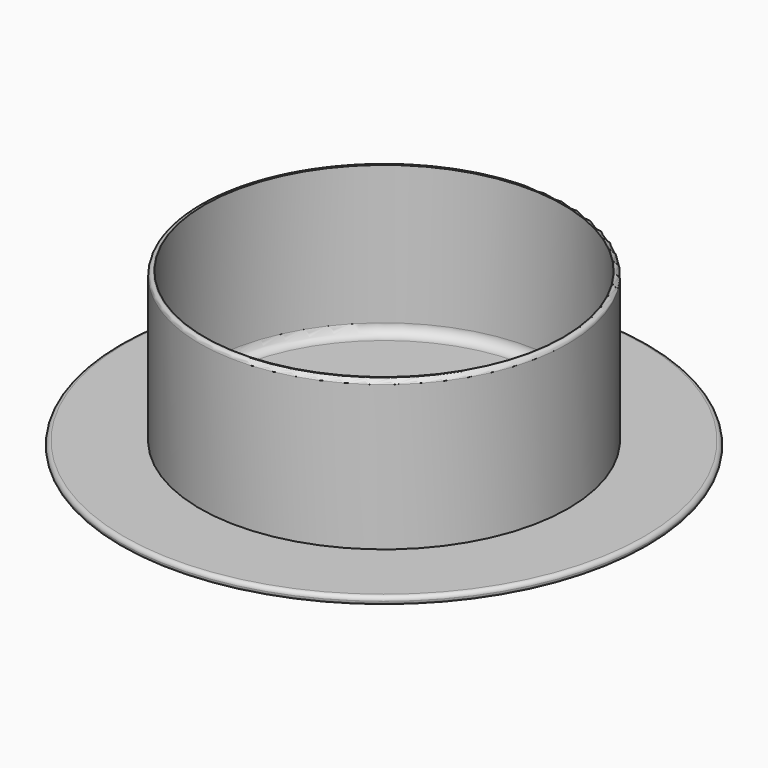
from build123d import *

# Parameters (mm, degrees)
SKETCH032_R   = 64.432756
PAD008_DEPTH  = 2
SKETCH033_R   = 44.95
SKETCH033_R_2 = 43.75
PAD009_DEPTH  = 36.4
FILLET009_R   = 0.99
FILLET010_R   = 2.5


with BuildPart() as part:
    # Sketch032 → Pad008 (new body)
    with BuildSketch(Plane.XY):
        Circle(SKETCH032_R)
    extrude(amount=PAD008_DEPTH)

    # Sketch033 → Pad009 (join)
    with BuildSketch(Plane.XY.offset(2)):
        Circle(SKETCH033_R)
        Circle(SKETCH033_R_2, mode=Mode.SUBTRACT)
    extrude(amount=PAD009_DEPTH)

    # Fillet009
    fillet009_edges = [part.edges().sort_by_distance(p)[0] for p in [
        (-44.95, 0, 38.4),
        (-64.432756, 0, 2),
        (-64.432756, 0, 0),
    ]]
    fillet(fillet009_edges, radius=FILLET009_R)

    # Fillet010
    fillet010_edges = [part.edges().sort_by_distance(p)[0] for p in [
        (-43.75, 0, 2),
    ]]
    fillet(fillet010_edges, radius=FILLET010_R)


solid = part.part
